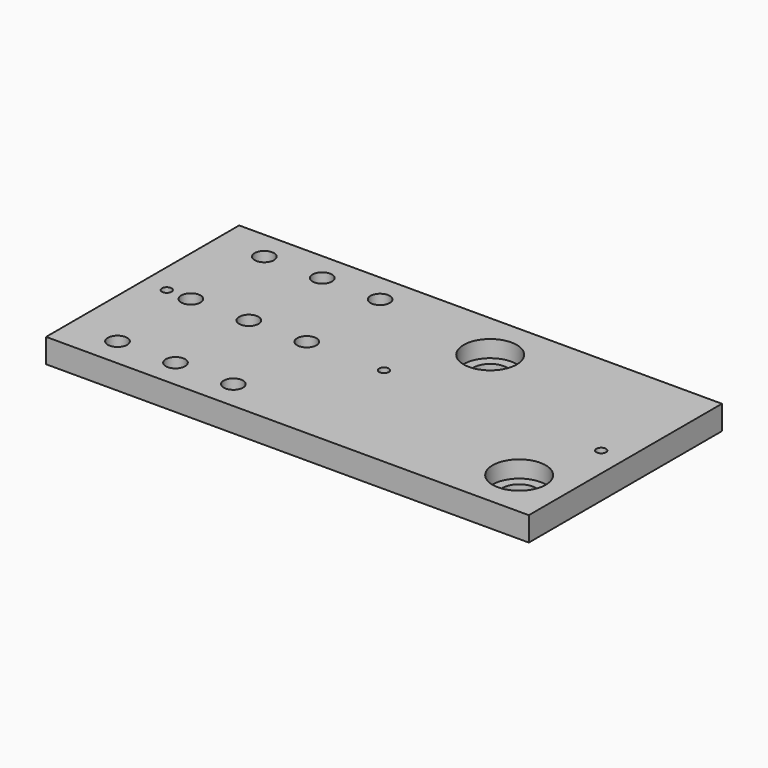
from build123d import *

# Parameters (mm, degrees)
F0_R     = 4
F0_R_2   = 2
F0_R_3   = 11
F1_DEPTH = 10
F0_R_4   = 7
F2_DEPTH = 3


with BuildPart() as f1:
    # F0 (on Top) → F1 (new body)
    with BuildSketch(Plane.XY):
        Polygon((63.985266, 62.836266), (-136.014734, 62.836266), (-136.014734, -37.163734), (43.985266, -37.163734), (63.985266, -37.163734), align=None)
        with Locations((-116.014734, -25.163734)):
            Circle(F0_R, mode=Mode.SUBTRACT)
        with Locations((-92.014734, -25.163734)):
            Circle(F0_R, mode=Mode.SUBTRACT)
        with Locations((-68.014734, -25.163734)):
            Circle(F0_R, mode=Mode.SUBTRACT)
        with BuildLine():
            ThreePointArc((54.985266, -17.163734), (51.76344, -24.941909), (43.985266, -28.163734))
            ThreePointArc((43.985266, -28.163734), (36.207091, -9.38556), (54.985266, -17.163734))
        make_face(mode=Mode.SUBTRACT)
        with Locations((-126.014734, 12.836266)):
            Circle(F0_R_2, mode=Mode.SUBTRACT)
        with Locations((-116.014734, 12.836266)):
            Circle(F0_R, mode=Mode.SUBTRACT)
        with Locations((-92.014734, 12.836266)):
            Circle(F0_R, mode=Mode.SUBTRACT)
        with Locations((-68.014734, 12.836266)):
            Circle(F0_R, mode=Mode.SUBTRACT)
        with Locations((-116.014734, 50.836266)):
            Circle(F0_R, mode=Mode.SUBTRACT)
        with Locations((-92.014734, 50.836266)):
            Circle(F0_R, mode=Mode.SUBTRACT)
        with Locations((-68.014734, 50.836266)):
            Circle(F0_R, mode=Mode.SUBTRACT)
        with Locations((-36.014734, 12.836266)):
            Circle(F0_R_2, mode=Mode.SUBTRACT)
        with Locations((53.985266, 12.836266)):
            Circle(F0_R_2, mode=Mode.SUBTRACT)
        with Locations((-16.014734, 42.836266)):
            Circle(F0_R_3, mode=Mode.SUBTRACT)
    extrude(amount=F1_DEPTH)

    # F0 (on Top) → F2 (join)
    with BuildSketch(Plane.XY):
        with Locations((-16.014734, 42.836266)):
            Circle(F0_R_3)
        with Locations((-16.014734, 42.836266)):
            Circle(F0_R_4, mode=Mode.SUBTRACT)
        with BuildLine():
            ThreePointArc((54.985266, -17.163734), (36.207091, -9.38556), (43.985266, -28.163734))
            ThreePointArc((43.985266, -28.163734), (51.76344, -24.941909), (54.985266, -17.163734))
        make_face()
        with BuildLine():
            ThreePointArc((50.985266, -17.163734), (48.935013, -22.113482), (43.985266, -24.163734))
            ThreePointArc((43.985266, -24.163734), (39.035518, -12.213987), (50.985266, -17.163734))
        make_face(mode=Mode.SUBTRACT)
    extrude(amount=F2_DEPTH)


solid = f1.part
